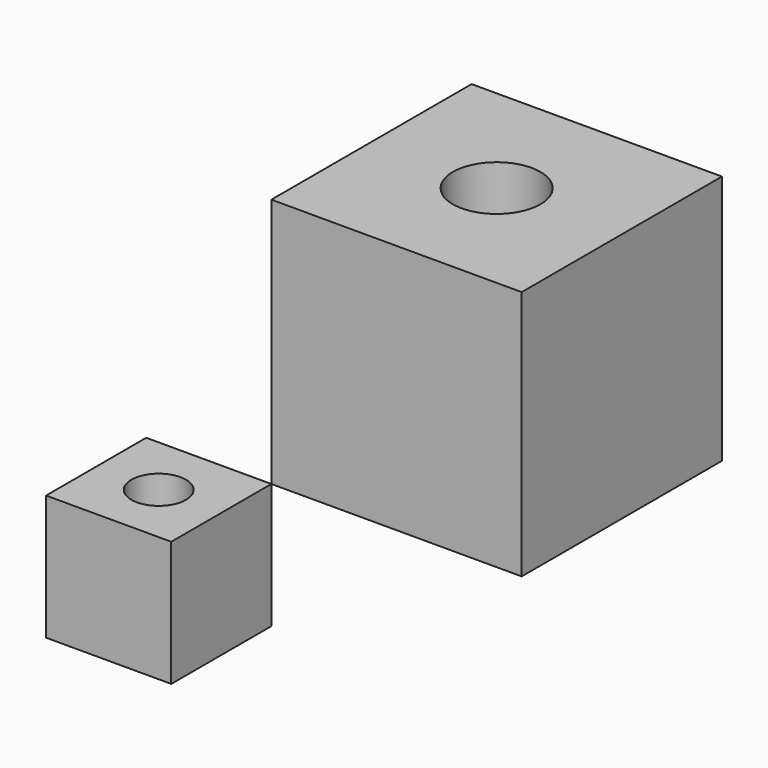
from build123d import *

# Parameters (mm, degrees)
F0_W     = 50.8
F0_H     = 50.8
F1_DEPTH = 50.8
F2_W     = 25.4
F2_H     = 25.4
F3_DEPTH = 25.4
F4_R     = 8.89
F5_DEPTH = 50.8
F6_R     = 5.54117
F7_DEPTH = 25.4


with BuildPart() as f1:
    # F0 (on Front) → F1 (new body)
    with BuildSketch(Plane.XZ):
        with Locations((25.4, 25.4)):
            Rectangle(F0_W, F0_H)
    extrude(amount=F1_DEPTH)

    # F4 (on face) → F5 (cut)
    with BuildSketch(Plane.XY.offset(50.8)):
        with Locations((25.4, -25.4)):
            Circle(F4_R)
    extrude(amount=-F5_DEPTH, mode=Mode.SUBTRACT)


with BuildPart() as f3:
    # F2 (on face) → F3 (new body)
    with BuildSketch(Plane.XZ.offset(50.8)):
        with Locations((-12.7, -12.7)):
            Rectangle(F2_W, F2_H)
    extrude(amount=F3_DEPTH)

    # F6 (on face) → F7 (cut)
    with BuildSketch(Plane.XY):
        with Locations((-12.7, -63.5)):
            Circle(F6_R)
    extrude(amount=-F7_DEPTH, mode=Mode.SUBTRACT)


solid = Compound([f1.part, f3.part])
